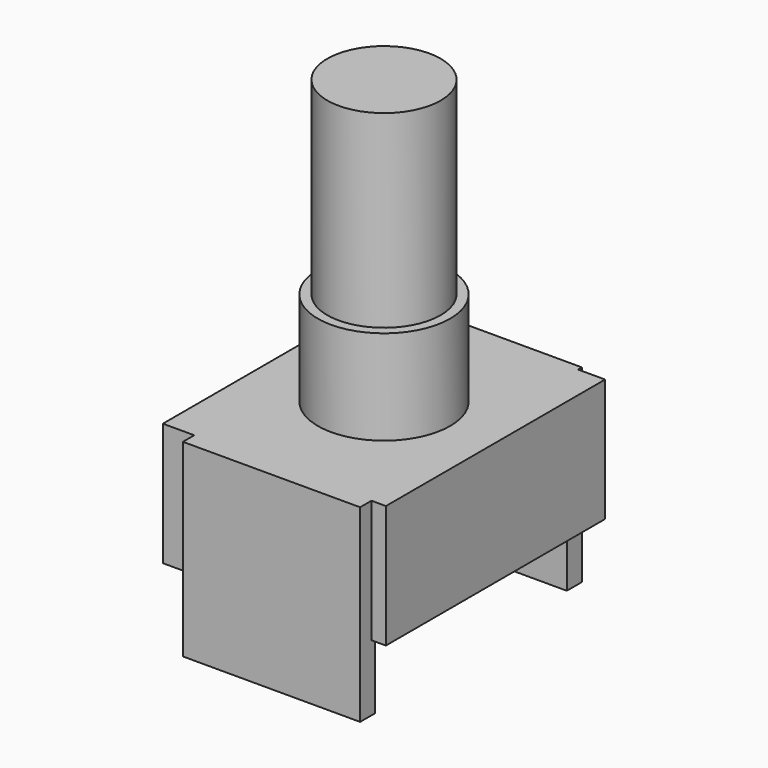
from build123d import *

# Parameters (mm, degrees)
SKETCH012_W   = 11.8
SKETCH012_H   = 14.5
PAD009_DEPTH  = 6.5
SKETCH013_R   = 3.5
PAD010_DEPTH  = 5
SKETCH014_R   = 3
PAD011_DEPTH  = 15
SKETCH015_W   = 8.880223
SKETCH015_H   = 1
SKETCH015_W_2 = 9.377943
PAD012_DEPTH  = 10


with BuildPart() as part:
    # Sketch012 → Pad009 (new body)
    with BuildSketch(Plane.XY):
        Rectangle(SKETCH012_W, SKETCH012_H)
    extrude(amount=-PAD009_DEPTH)

    # Sketch013 → Pad010 (join)
    with BuildSketch(Plane.XY):
        Circle(SKETCH013_R)
    extrude(amount=PAD010_DEPTH)

    # Sketch014 → Pad011 (join)
    with BuildSketch(Plane.XY):
        Circle(SKETCH014_R)
    extrude(amount=PAD011_DEPTH)

    # Sketch015 → Pad012 (join)
    with BuildSketch(Plane.XY):
        with Locations((0.034908, 7)):
            Rectangle(SKETCH015_W, SKETCH015_H)
        with Locations((0.447315, -7.5)):
            Rectangle(SKETCH015_W_2, SKETCH015_H)
    extrude(amount=-PAD012_DEPTH)


solid = part.part
